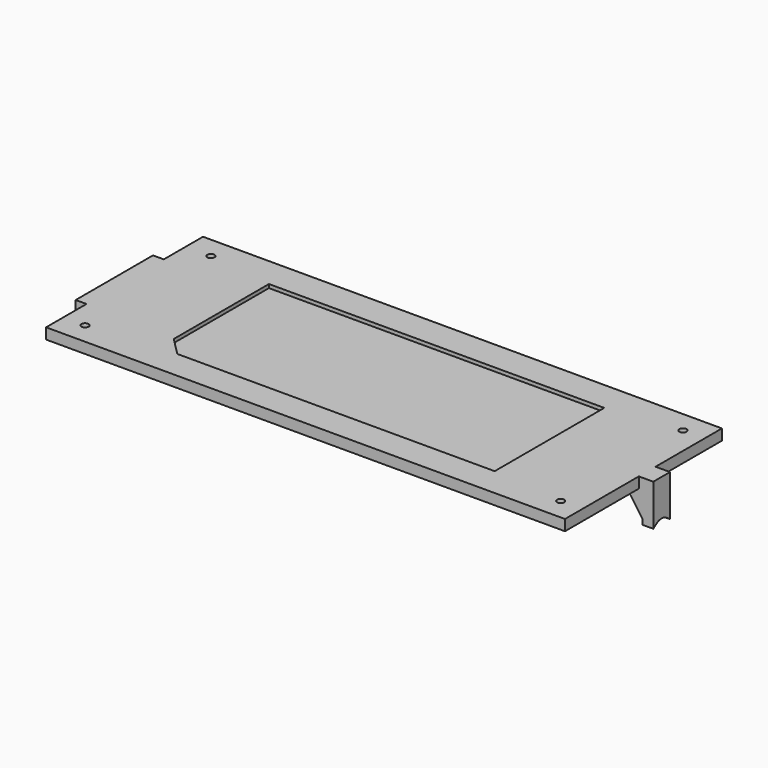
from build123d import *

# Parameters (mm, degrees)
F0_W      = 143.9
F0_H      = 54.4
F1_DEPTH  = 3
F2_W      = 5.8
F2_H      = 3
F3_DEPTH  = 4
F4_W      = 4
F4_H      = 5.8
F5_DEPTH  = 8.5
F7_DEPTH  = 5
F8_R      = 3
F9_W      = 26.8
F9_H      = 3
F10_DEPTH = 3
F11_W     = 3
F11_H     = 26.8
F12_DEPTH = 2.5
F13_W     = 26.8
F13_H     = 2.5
F14_DEPTH = 0.2
F16_DEPTH = 1
F17_W     = 5.8
F17_H     = 12.271342
F18_DEPTH = 1
F20_DEPTH = 5.8
F21_SIZE  = 1
F22_R     = 1
F23_DEPTH = 3


with BuildPart() as f1:
    # F0 (on Top) → F1 (new body)
    with BuildSketch(Plane.XY):
        with Locations((71.95, -27.2)):
            Rectangle(F0_W, F0_H)
    extrude(amount=F1_DEPTH)

    # F2 (on face) → F3 (join)
    with BuildSketch(Plane.YZ.offset(143.9)):
        with Locations((-25.9, 1.5)):
            Rectangle(F2_W, F2_H)
    extrude(amount=F3_DEPTH)

    # F4 (on face) → F5 (join)
    with BuildSketch(Plane(origin=(0, 0, 0), x_dir=(1, 0, 0), z_dir=(0, 0, -1))):
        with Locations((145.9, 25.9)):
            Rectangle(F4_W, F4_H)
    extrude(amount=F5_DEPTH)

    # F6 (on face) → F7 (cut)
    with BuildSketch(Plane.YZ.offset(147.9)):
        Polygon((-25.9, -6.469398), (-28.8, -8.5), (-23, -8.5), align=None)
    extrude(amount=-F7_DEPTH, mode=Mode.SUBTRACT)

    # F8
    f8_edges = [f1.edges().sort_by_distance(p)[0] for p in [
        (145.9, -25.9, -6.469398),
    ]]
    fillet(f8_edges, radius=F8_R)

    # F9 (on face) → F10 (join)
    with BuildSketch(Plane(origin=(0, 0, 0), x_dir=(0, -1, 0), z_dir=(-1, 0, 0))):
        with Locations((27, 1.5)):
            Rectangle(F9_W, F9_H)
    extrude(amount=F10_DEPTH)

    # F11 (on face) → F12 (join)
    with BuildSketch(Plane(origin=(0, 0, 0), x_dir=(1, 0, 0), z_dir=(0, 0, -1))):
        with Locations((-1.5, 27)):
            Rectangle(F11_W, F11_H)
    extrude(amount=F12_DEPTH)

    # F13 (on face) → F14 (cut)
    with BuildSketch(Plane.YZ):
        with Locations((-27, -1.25)):
            Rectangle(F13_W, F13_H)
    extrude(amount=-F14_DEPTH, mode=Mode.SUBTRACT)

    # F15 (on face) → F16 (cut)
    with BuildSketch(Plane.XY.offset(3)):
        Polygon((118, -8.4), (25, -8.4), (25, -41.4), (30, -46.4), (118, -46.4), align=None)
    extrude(amount=-F16_DEPTH, mode=Mode.SUBTRACT)

    # F17 (on face) → F18 (cut)
    with BuildSketch(Plane(origin=(143.9, 0, 0), x_dir=(0, -1, 0), z_dir=(-1, 0, 0))):
        with Locations((25.9, -6.135671)):
            Rectangle(F17_W, F17_H)
    extrude(amount=-F18_DEPTH, mode=Mode.SUBTRACT)

    # F19 (on face) → F20 (join)
    with BuildSketch(Plane(origin=(0, -23, 0), x_dir=(-1, 0, 0), z_dir=(0, 1, 0))):
        Polygon((-139.9, 0), (-144.9, 0), (-144.9, -7), align=None)
    extrude(amount=-F20_DEPTH)

    # F21
    f21_edges = [f1.edges().sort_by_distance(p)[0] for p in [
        (-3, -27, -2.5),
    ]]
    chamfer(f21_edges, length=F21_SIZE)

    # F22 (on face) → F23 (cut)
    with BuildSketch(Plane.XY.offset(3)):
        with Locations((137.9, -48.4)):
            Circle(F22_R)
        with Locations((137.9, -6)):
            Circle(F22_R)
        with Locations((6.019338, -48.4)):
            Circle(F22_R)
        with Locations((7, -6)):
            Circle(F22_R)
    extrude(amount=-F23_DEPTH, mode=Mode.SUBTRACT)


solid = f1.part
